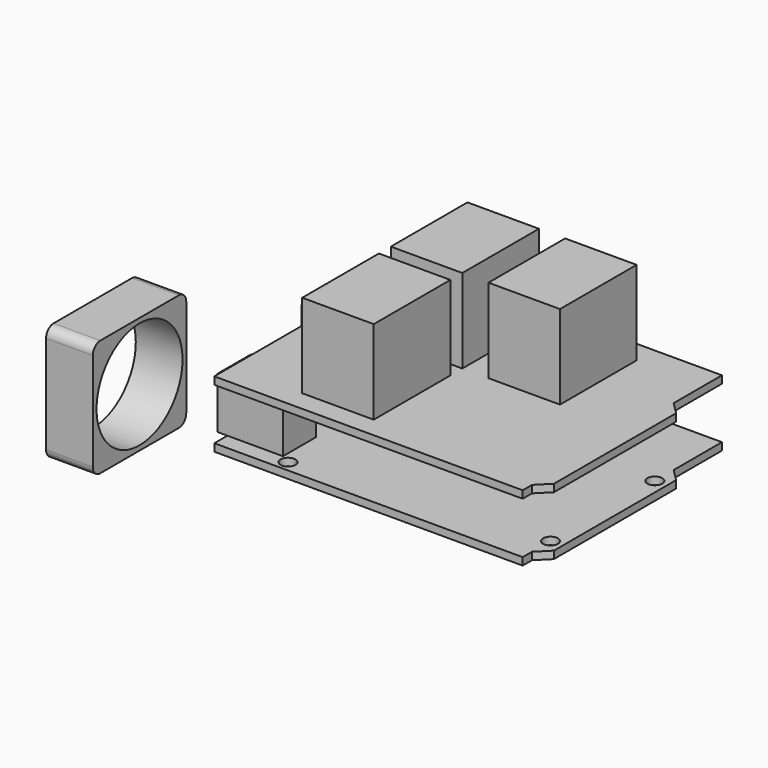
from build123d import *

# Parameters (mm, degrees)
SKETCH_R      = 1.6
PAD_DEPTH     = 1.6
SKETCH001_W   = 14
SKETCH001_H   = 8.9
SKETCH001_W_2 = 16
SKETCH001_H_2 = 12.1
PAD001_DEPTH  = 11
PAD002_DEPTH  = 1.6
SKETCH003_W   = 15.3
SKETCH003_H   = 20.5
PAD003_DEPTH  = 18
SKETCH004_W   = 25
SKETCH004_H   = 25
PAD004_DEPTH  = 10
FILLET_R      = 2
SKETCH006_R   = 11.5
POCKET_DEPTH  = 10.001


with BuildPart() as board:
    # Sketch → Pad (new body)
    with BuildSketch(Plane.XY):
        Polygon((20, 73.3), (20, 20), (86, 20), (86, 22.5), (88.6, 25.1), (88.6, 57.8), (86, 60.4), (86, 73.3), align=None)
        with Locations((33.9, 22.35)):
            Circle(SKETCH_R, mode=Mode.SUBTRACT)
        with Locations((86, 27.45)):
            Circle(SKETCH_R, mode=Mode.SUBTRACT)
        with Locations((86, 55.35)):
            Circle(SKETCH_R, mode=Mode.SUBTRACT)
        with Locations((35.2, 70.55)):
            Circle(SKETCH_R, mode=Mode.SUBTRACT)
    extrude(amount=PAD_DEPTH)

    # Sketch001 (on Face14 of Pad) → Pad001 (join)
    with BuildSketch(Plane.XY.offset(1.6)):
        with Locations((24.9, 27.95)):
            Rectangle(SKETCH001_W, SKETCH001_H)
        with Locations((21.3, 57.75)):
            Rectangle(SKETCH001_W_2, SKETCH001_H_2)
    extrude(amount=PAD001_DEPTH)

    # Sketch002 (on Face26 of Pad001) → Pad002 (join)
    with BuildSketch(Plane.XY.offset(12.6)):
        Polygon((20, 73.3), (20, 20), (86, 20), (86, 22.5), (88.6, 25.1), (88.6, 57.8), (86, 60.4), (86, 73.3), align=None)
    extrude(amount=PAD002_DEPTH)

    # Sketch003 (on Face36 of Pad002) → Pad003 (join)
    with BuildSketch(Plane.XY.offset(14.2)):
        with Locations((42.95, 58.35)):
            Rectangle(SKETCH003_W, SKETCH003_H)
        with Locations((63.85, 58.35)):
            Rectangle(SKETCH003_W, SKETCH003_H)
        with Locations((42.95, 34.65)):
            Rectangle(SKETCH003_W, SKETCH003_H)
    extrude(amount=PAD003_DEPTH)


with BuildPart() as fan:
    # Sketch004 → Pad004 (new body)
    with BuildSketch(Plane.YZ):
        with Locations((12.5, 12.5)):
            Rectangle(SKETCH004_W, SKETCH004_H)
    extrude(amount=PAD004_DEPTH)

    # Fillet
    fillet_edges = [fan.edges().sort_by_distance(p)[0] for p in [
        (5, 0, 25),
        (5, 25, 25),
        (5, 0, 0),
        (5, 25, 0),
    ]]
    fillet(fillet_edges, radius=FILLET_R)

    # Sketch006 (on Face5 of Fillet) → Pocket (cut, through all)
    with BuildSketch(Plane.YZ.offset(10)):
        with Locations((12.5, 12.5)):
            Circle(SKETCH006_R)
    extrude(amount=-POCKET_DEPTH, mode=Mode.SUBTRACT)


solid = Compound([board.part, fan.part])
